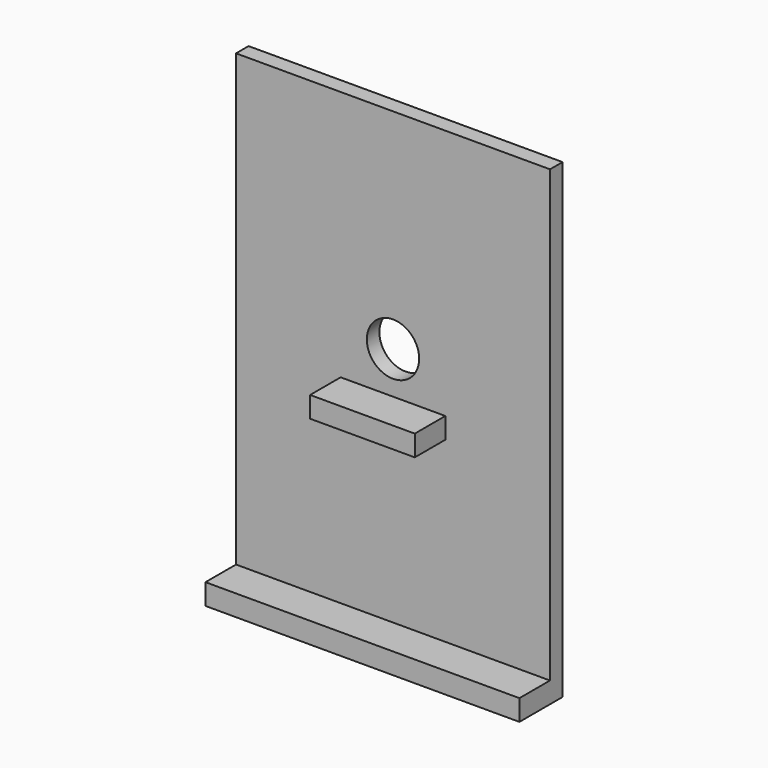
from build123d import *

# Parameters (mm, degrees)
F0_W     = 60
F0_H     = 90
F2_DEPTH = 3
F1_R     = 5
F3_DEPTH = 25.4
F4_W     = 60
F4_H     = 10.3
F5_DEPTH = 4
F6_W     = 20
F6_H     = 4
F7_DEPTH = 10.3


with BuildPart() as f2:
    # F0 (on Front) → F2 (new body)
    with BuildSketch(Plane.XZ):
        with Locations((0, -5)):
            Rectangle(F0_W, F0_H)
    extrude(amount=F2_DEPTH)

    # F1 (on face) → F3 (cut)
    with BuildSketch(Plane.XZ):
        Circle(F1_R)
    extrude(amount=F3_DEPTH, mode=Mode.SUBTRACT)

    # F4 (on face) → F5 (join)
    with BuildSketch(Plane(origin=(0, 0, -50), x_dir=(1, 0, 0), z_dir=(0, 0, -1))):
        with Locations((0, 5.15)):
            Rectangle(F4_W, F4_H)
    extrude(amount=-F5_DEPTH)

    # F6 (on Front) → F7 (join)
    with BuildSketch(Plane.XZ):
        with Locations((0, -10)):
            Rectangle(F6_W, F6_H)
    extrude(amount=F7_DEPTH)


solid = f2.part
